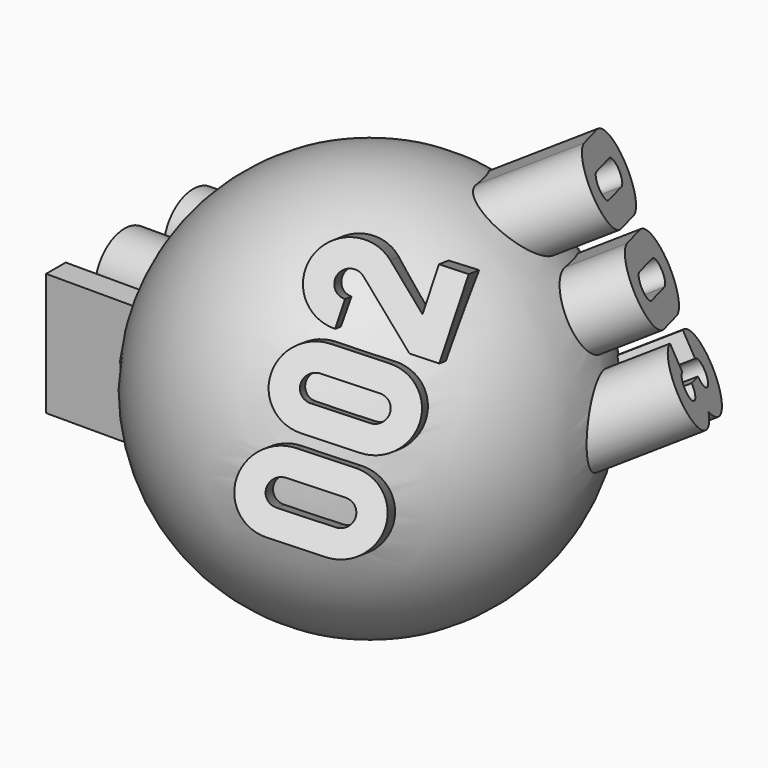
from build123d import *

# Parameters (mm, degrees)
SKETCH001_W  = 1
SKETCH001_H  = 5
PAD_DEPTH    = 10
PAD001_DEPTH = 10
PAD002_DEPTH = 10


with BuildPart() as part:
    # Sphere → Sphere (revolve)
    with BuildSketch(Plane.XZ):
        with BuildLine():
            ThreePointArc((0, -8), (8, 0), (0, 8))
            Line((0, 8), (0, -8))
        make_face()
    revolve(axis=Axis((0, 0, 0), (0, 0, 1)))

    # Sketch001 (on Vertex1 of Sketch) → Pad (new body)
    with BuildSketch(Plane(origin=(-10, 0, 0), x_dir=(0, -1, 0), z_dir=(1, 0, 0))):
        with BuildLine():
            ThreePointArc((-5, -1), (-3.5, -2.5), (-2, -1))
            Line((-2, -1), (-2, 1))
            ThreePointArc((-2, 1), (-3.5, 2.5), (-5, 1))
            Line((-5, 1), (-5, -1))
        make_face()
        with BuildLine():
            ThreePointArc((-4, -1), (-3.5, -1.5), (-3, -1))
            Line((-3, -1), (-3, 1))
            ThreePointArc((-3, 1), (-3.5, 1.5), (-4, 1))
            Line((-4, 1), (-4, -1))
        make_face(mode=Mode.SUBTRACT)
        with BuildLine():
            ThreePointArc((-1.5, -1), (0, -2.5), (1.5, -1))
            Line((1.5, -1), (1.5, 1))
            ThreePointArc((1.5, 1), (0, 2.5), (-1.5, 1))
            Line((-1.5, 1), (-1.5, -1))
        make_face()
        with BuildLine():
            ThreePointArc((-0.5, -1), (0, -1.5), (0.5, -1))
            Line((0.5, -1), (0.5, 1))
            ThreePointArc((0.5, 1), (0, 1.5), (-0.5, 1))
            Line((-0.5, 1), (-0.5, -1))
        make_face(mode=Mode.SUBTRACT)
        with Locations((3.5, 0)):
            Rectangle(SKETCH001_W, SKETCH001_H)
    extrude(amount=PAD_DEPTH)

    # Sketch002 (on Vertex1 of Sketch) → Pad001 (join)
    with BuildSketch(Plane(origin=(5, -7.5, 4.330127), x_dir=(0, 0.5, 0.866025), z_dir=(0.5, -0.75, 0.433013))):
        with BuildLine():
            ThreePointArc((-5, -1), (-3.5, -2.5), (-2, -1))
            Line((-2, -1), (-2, 1))
            ThreePointArc((-2, 1), (-3.5, 2.5), (-5, 1))
            Line((-5, 1), (-5, -1))
        make_face()
        with BuildLine():
            ThreePointArc((-4, -1), (-3.5, -1.5), (-3, -1))
            Line((-3, -1), (-3, 1))
            ThreePointArc((-3, 1), (-3.5, 1.5), (-4, 1))
            Line((-4, 1), (-4, -1))
        make_face(mode=Mode.SUBTRACT)
        with BuildLine():
            ThreePointArc((-1.5, -1), (0, -2.5), (1.5, -1))
            Line((1.5, -1), (1.5, 1))
            ThreePointArc((1.5, 1), (0, 2.5), (-1.5, 1))
            Line((-1.5, 1), (-1.5, -1))
        make_face()
        with BuildLine():
            ThreePointArc((-0.5, -1), (0, -1.5), (0.5, -1))
            Line((0.5, -1), (0.5, 1))
            ThreePointArc((0.5, 1), (0, 1.5), (-0.5, 1))
            Line((-0.5, 1), (-0.5, -1))
        make_face(mode=Mode.SUBTRACT)
        with BuildLine():
            Line((5, -1.5), (5, -2.5))
            Line((5, -2.5), (2, -2.5))
            Line((2, -2.5), (2, -1.5))
            Line((2, -1.5), (3.878277, 0.673034))
            ThreePointArc((3.878277, 0.673034), (3.674444, 1.468582), (3, 1))
            Line((3, 1), (2, 1))
            ThreePointArc((4.63483, 0.019102), (4.023333, 2.405746), (2, 1))
            Line((4.63483, 0.019102), (3.321784, -1.5))
            Line((3.321784, -1.5), (5, -1.5))
        make_face()
    extrude(amount=-PAD001_DEPTH)

    # Sketch003 (on Vertex1 of Sketch) → Pad002 (join)
    with BuildSketch(Plane(origin=(7.5, 5, 4.330127), x_dir=(0.5, 0, -0.866025), z_dir=(0.75, 0.5, 0.433013))):
        with BuildLine():
            ThreePointArc((-5, -1), (-3.5, -2.5), (-2, -1))
            Line((-2, -1), (-2, 1))
            ThreePointArc((-2, 1), (-3.5, 2.5), (-5, 1))
            Line((-5, 1), (-5, -1))
        make_face()
        with BuildLine():
            ThreePointArc((-4, -1), (-3.5, -1.5), (-3, -1))
            Line((-3, -1), (-3, 1))
            ThreePointArc((-3, 1), (-3.5, 1.5), (-4, 1))
            Line((-4, 1), (-4, -1))
        make_face(mode=Mode.SUBTRACT)
        with BuildLine():
            ThreePointArc((-1.5, -1), (0, -2.5), (1.5, -1))
            Line((1.5, -1), (1.5, 1))
            ThreePointArc((1.5, 1), (0, 2.5), (-1.5, 1))
            Line((-1.5, 1), (-1.5, -1))
        make_face()
        with BuildLine():
            ThreePointArc((-0.5, -1), (0, -1.5), (0.5, -1))
            Line((0.5, -1), (0.5, 1))
            ThreePointArc((0.5, 1), (0, 1.5), (-0.5, 1))
            Line((-0.5, 1), (-0.5, -1))
        make_face(mode=Mode.SUBTRACT)
        with BuildLine():
            ThreePointArc((3, -1), (3.853553, -1.353553), (3.5, -0.5))
            Line((3.5, 0.5), (3.5, -0.5))
            ThreePointArc((3.5, 0.5), (3.853553, 1.353553), (3, 1))
            Line((2, 1), (3, 1))
            ThreePointArc((4.618034, 0), (4.035233, 2.401259), (2, 1))
            ThreePointArc((2, -1), (4.035233, -2.401259), (4.618034, 0))
            Line((2, -1), (3, -1))
        make_face()
    extrude(amount=-PAD002_DEPTH)


solid = part.part
